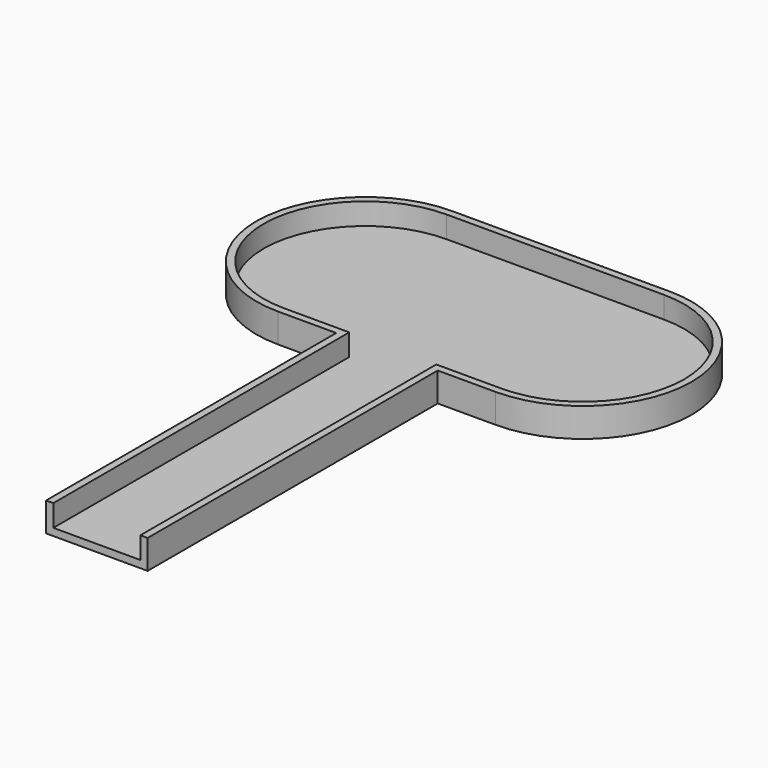
from build123d import *

# Parameters (mm, degrees)
PAD_DEPTH    = 4
POCKET_DEPTH = 3


with BuildPart() as part:
    # Sketch → Pad (new body)
    with BuildSketch(Plane.XY):
        with BuildLine():
            Line((-7, -50), (7, -50))
            Line((7, -50), (7, 0))
            Line((7, 0), (15, 0))
            ThreePointArc((15, 0), (30, 15), (15, 30))
            Line((15, 30), (-15, 30))
            ThreePointArc((-15, 30), (-30, 15), (-15, 0))
            Line((-15, 0), (-7, 0))
            Line((-7, 0), (-7, -50))
        make_face()
    extrude(amount=PAD_DEPTH)

    # Sketch001 → Pocket (cut)
    with BuildSketch(Plane.XY.offset(4)):
        with BuildLine():
            Line((-6, -50), (6, -50))
            Line((6, -50), (6, 1))
            Line((6, 1), (15, 1))
            ThreePointArc((15, 1), (29, 15), (15, 29))
            Line((15, 29), (-15, 29))
            ThreePointArc((-15, 29), (-29, 15), (-15, 1))
            Line((-15, 1), (-6, 1))
            Line((-6, 1), (-6, -50))
        make_face()
    extrude(amount=-POCKET_DEPTH, mode=Mode.SUBTRACT)


solid = part.part
